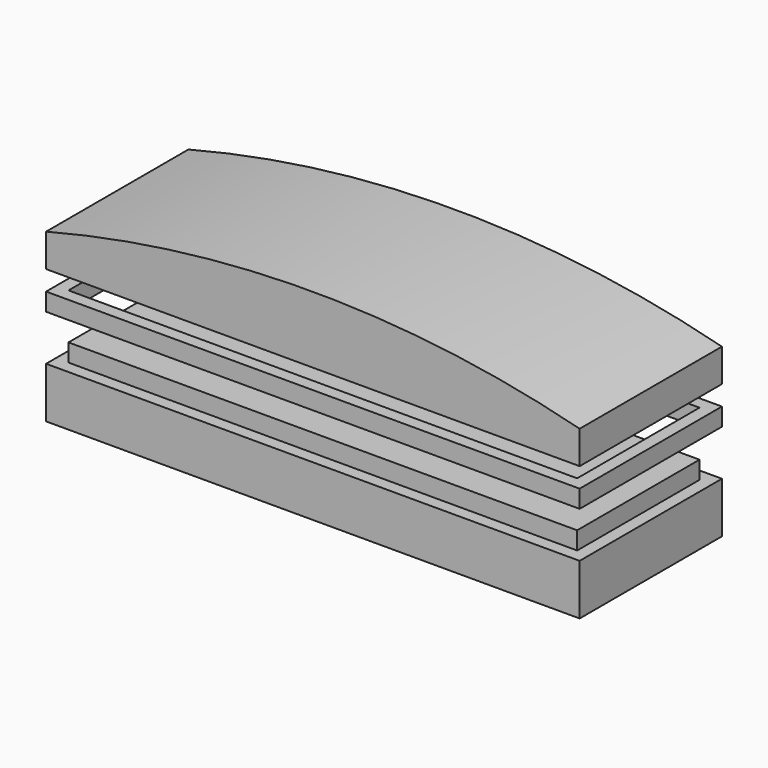
from build123d import *

# Parameters (mm, degrees)
F0_W      = 150
F0_H      = 14.27
F1_DEPTH  = 25
F2_DEPTH  = 25
F3_W      = 143
F3_H      = 43
F4_DEPTH  = 19.27
F6_W      = 150
F6_H      = 50
F6_W_2    = 143
F6_H_2    = 43
F7_DEPTH  = 5
F8_W      = 150
F8_H      = 9.27
F9_DEPTH  = 25
F10_DEPTH = 25
F11_W     = 143
F11_H     = 43
F12_DEPTH = 9.27


with BuildPart() as f1:
    # F0 (on Front) → F1 (new body)
    with BuildSketch(Plane.XZ):
        Rectangle(F0_W, F0_H)
    extrude(amount=F1_DEPTH)

    # F2 (add): a face of the model
    f2_faces = [f1.faces().sort_by_distance(p)[0] for p in [
        (0, 0, 0),
    ]]
    extrude(f2_faces, amount=F2_DEPTH)

    # F3 (on face) → F4 (join)
    with BuildSketch(Plane(origin=(0, 0, -7.135), x_dir=(1, 0, 0), z_dir=(0, 0, -1))):
        Rectangle(F3_W, F3_H)
    extrude(amount=-F4_DEPTH)


with BuildPart() as f7:
    # F6 (on offset) → F7 (new body)
    with BuildSketch(Plane.XY.offset(20)):
        Rectangle(F6_W, F6_H)
        Rectangle(F6_W_2, F6_H_2, mode=Mode.SUBTRACT)
    extrude(amount=F7_DEPTH)


with BuildPart() as f9:
    # F8 (on Front) → F9 (new body)
    with BuildSketch(Plane.XZ):
        with BuildLine():
            Line((-75, 39.8310137486), (75, 39.8310137486))
            ThreePointArc((75, 39.8310137486), (0, 49.3572627831), (-75, 39.8310137486))
        make_face()
        with Locations((0, 35.1960137486)):
            Rectangle(F8_W, F8_H)
    extrude(amount=F9_DEPTH)

    # F10 (add): a face of the model
    f10_faces = [f9.faces().sort_by_distance(p)[0] for p in [
        (0, 0, 38.6383136313),
    ]]
    extrude(f10_faces, amount=F10_DEPTH)

    # F11 (on face) → F12 (cut)
    with BuildSketch(Plane(origin=(0, 0, 30.5610137486), x_dir=(1, 0, 0), z_dir=(0, 0, -1))):
        Rectangle(F11_W, F11_H)
    extrude(amount=-F12_DEPTH, mode=Mode.SUBTRACT)


solid = Compound([f1.part, f7.part, f9.part])
